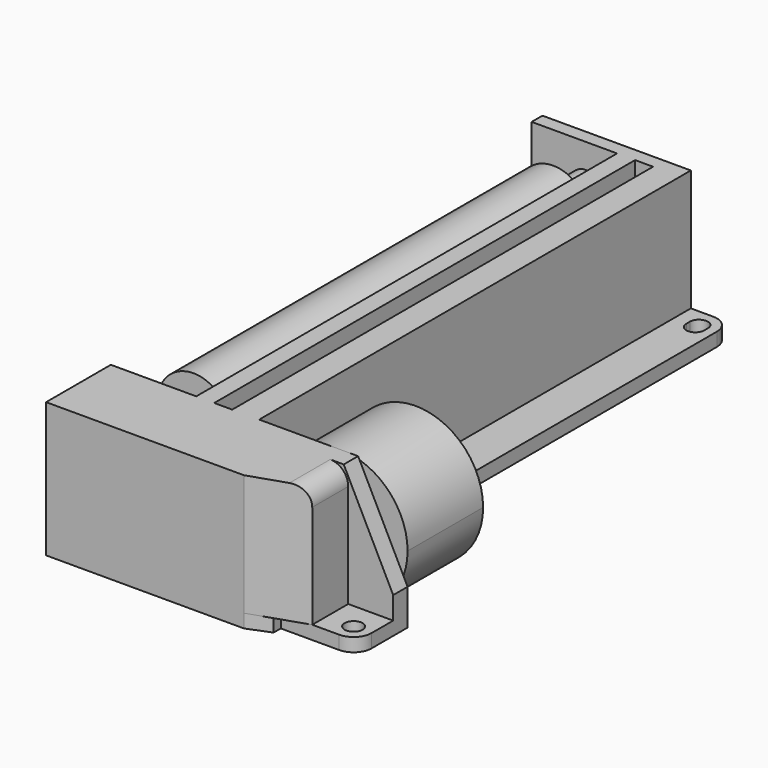
from build123d import *

# Parameters (mm, degrees)
PAD026_DEPTH            = 1.5
SKETCH032_R             = 1
POCKET005_DEPTH         = 1.501
PAD027_DEPTH            = 13.5
FILLET001_R             = 2
CHAMFER004_SIZE2        = 11
CHAMFER004_SIZE         = 5.5
SKETCH034_R             = 7.5
PAD028_DEPTH            = 10.5
SKETCH035_R             = 2.5
PAD029_DEPTH            = 1
SKETCH036_W             = 2
SKETCH036_H             = 13.5
PAD030_DEPTH            = 60
SKETCH037_R             = 1.75
PAD031_DEPTH            = 4
SKETCH038_R             = 4
PAD032_DEPTH            = 50
SKETCH039_R             = 1.75
PAD033_DEPTH            = 6
BODY011_ROLL_ANGLE      = 180
BODY011_PLACEMENT_ANGLE = 90


with BuildPart() as part:
    # Sketch031 → Pad026 (new body)
    with BuildSketch(Plane.XY):
        with BuildLine():
            Line((0, 0), (69, 0))
            Line((69, 0), (69, 19))
            ThreePointArc((69, 19), (68.414214, 20.414214), (67, 21))
            Line((67, 21), (9, 21))
            Line((9, 21), (9, 33))
            Line((9, 33), (4, 33))
            ThreePointArc((4, 33), (2.585786, 32.414214), (2, 31))
            Line((2, 31), (2, 24.5))
            Line((2, 24.5), (1, 24.5))
            Line((1, 24.5), (0, 22))
            Line((0, 0), (0, 22))
        make_face()
    extrude(amount=PAD026_DEPTH)

    # Sketch032 (on Face13 of Pad026) → Pocket005 (cut, through all)
    with BuildSketch(Plane.XY.offset(1.5)):
        with Locations((4, 31)):
            Circle(SKETCH032_R)
        with BuildLine():
            ThreePointArc((67, 18), (68, 19), (67, 20))
            Line((67, 20), (66.5, 20))
            ThreePointArc((66.5, 20), (65.5, 19), (66.5, 18))
            Line((67, 18), (66.5, 18))
        make_face()
    extrude(amount=-POCKET005_DEPTH, mode=Mode.SUBTRACT)

    # Sketch033 (on Face4 of Pocket005) → Pad027 (join)
    with BuildSketch(Plane(origin=(0, 0, 0), x_dir=(1, 0, 0), z_dir=(0, 0, -1))):
        Polygon((69, -16.5), (9, -16.5), (9, -33), (7, -33), (7, -28), (2, -28), (0, -22), (0, 0), (9, 0), (9, -13.5), (67.5, -13.5), (67.5, 0), (69, 0), align=None)
    extrude(amount=PAD027_DEPTH)

    # Fillet001
    fillet001_edges = [part.edges().sort_by_distance(p)[0] for p in [
        (4.5, 28, -13.5),
    ]]
    fillet(fillet001_edges, radius=FILLET001_R)

    # Chamfer004
    chamfer004_edges = [part.edges().sort_by_distance(p)[0] for p in [
        (8, 33, -13.5),
    ]]
    chamfer004_side = part.faces().sort_by_distance((21.468212, 13.972492, -13.5))[0]
    chamfer(chamfer004_edges, length=CHAMFER004_SIZE, length2=CHAMFER004_SIZE2, reference=chamfer004_side)

    # Sketch034 (on Face5 of Chamfer004) → Pad028 (join)
    with BuildSketch(Plane.YZ.offset(9)):
        with Locations((25.5, -6)):
            Circle(SKETCH034_R)
    extrude(amount=PAD028_DEPTH)

    # Sketch035 (on Face1 of Pad028) → Pad029 (join)
    with BuildSketch(Plane.YZ.offset(19.5)):
        with Locations((25.5, -6)):
            Circle(SKETCH035_R)
    extrude(amount=PAD029_DEPTH)

    # Sketch036 (on Face23 of Pad029) → Pad030 (join)
    with BuildSketch(Plane.YZ.offset(9)):
        with Locations((10.5, -6.75)):
            Rectangle(SKETCH036_W, SKETCH036_H)
    extrude(amount=PAD030_DEPTH)

    # Sketch037 (on Face1 of Pad030) → Pad031 (join)
    with BuildSketch(Plane.YZ.offset(9)):
        with Locations((6, -9)):
            Circle(SKETCH037_R)
    extrude(amount=PAD031_DEPTH)

    # Sketch038 (on Face22 of Pad031) → Pad032 (join)
    with BuildSketch(Plane.YZ.offset(13)):
        with Locations((6, -9)):
            Circle(SKETCH038_R)
    extrude(amount=PAD032_DEPTH)

    # Sketch039 (on Face8 of Pad032) → Pad033 (join)
    with BuildSketch(Plane.YZ.offset(63)):
        with Locations((6, -9)):
            Circle(SKETCH039_R)
    extrude(amount=PAD033_DEPTH)


with BuildPart() as part_1:
    # Body011 roll: moved
    add(part.part.rotate(Axis((0, 0, 0), (1, 0, 0)), BODY011_ROLL_ANGLE))


with BuildPart() as part_2:
    # Body011 placement: moved
    add(part_1.part.moved(Location((-196, 277, 54.5))).rotate(Axis((-196, 277, 54.5), (0, 0, 1)), BODY011_PLACEMENT_ANGLE))


solid = part_2.part
